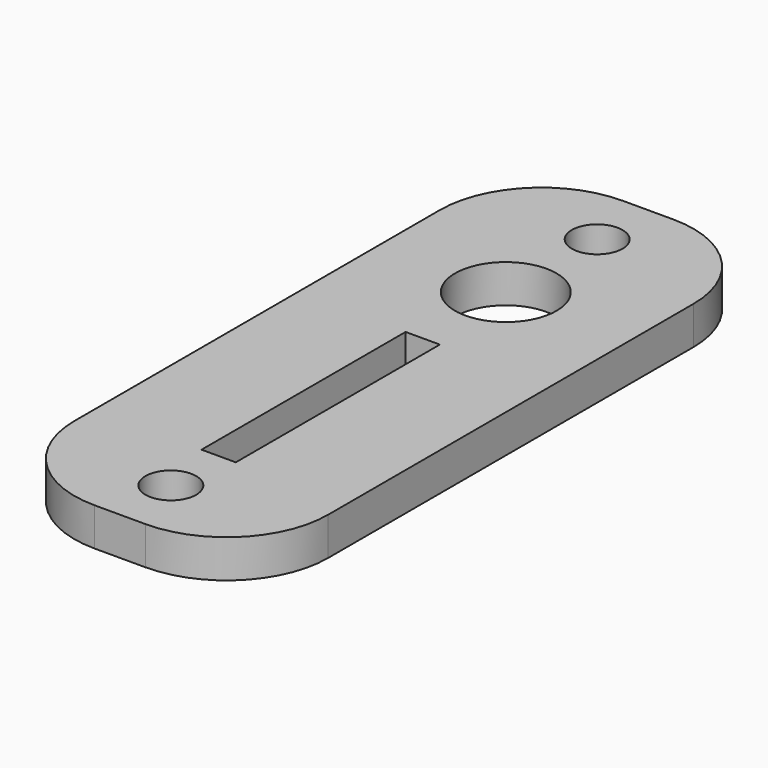
from build123d import *

# Parameters (mm, degrees)
CYLINDER372_R     = 2
CYLINDER372_DEPTH = 70
CYLINDER373_R     = 2
CYLINDER373_DEPTH = 70
CYLINDER369_R     = 4
CYLINDER369_DEPTH = 5
BOX463_W          = 2.7
BOX463_H          = 20.1
BOX463_DEPTH      = 5
BOX459_W          = 20
BOX459_H          = 52
BOX459_DEPTH      = 3
FILLET016_R       = 8


with BuildPart() as cylinder372:
    # Cylinder372 → Cylinder372 (new body)
    with BuildSketch(Plane(origin=(-90, -103, -10), x_dir=(1, 0, 0), z_dir=(0, 0, 1))):
        Circle(CYLINDER372_R)
    extrude(amount=CYLINDER372_DEPTH)


with BuildPart() as fusion369:
    # Cylinder373 → Cylinder373 (new body)
    with BuildSketch(Plane(origin=(-90, -61, -10), x_dir=(1, 0, 0), z_dir=(0, 0, 1))):
        Circle(CYLINDER373_R)
    extrude(amount=CYLINDER373_DEPTH)

    # Fusion369: union Cylinder372
    add(cylinder372.part)


with BuildPart() as fusion369_1:
    # Fusion369 placement: moved
    add(fusion369.part.moved(Location((114, 0, 0))))


with BuildPart() as cylinder369:
    # Cylinder369 → Cylinder369 (new body)
    with BuildSketch(Plane(origin=(24, -70, 39), x_dir=(1, 0, 0), z_dir=(0, 0, 1))):
        Circle(CYLINDER369_R)
    extrude(amount=CYLINDER369_DEPTH)


with BuildPart() as box463:
    # Box463 → Box463 (new body)
    with BuildSketch(Plane(origin=(22.5, -98.1, 39), x_dir=(1, 0, 0), z_dir=(0, 0, 1))):
        with Locations((1.35, 10.05)):
            Rectangle(BOX463_W, BOX463_H)
    extrude(amount=BOX463_DEPTH)


with BuildPart() as cut402:
    # Box459 → Box459 (new body)
    with BuildSketch(Plane(origin=(14, -108, 40.1), x_dir=(1, 0, 0), z_dir=(0, 0, 1))):
        with Locations((10, 26)):
            Rectangle(BOX459_W, BOX459_H)
    extrude(amount=BOX459_DEPTH)

    # Cut397: cut Box463
    add(box463.part, mode=Mode.SUBTRACT)

    # Fillet016
    fillet016_edges = [cut402.edges().sort_by_distance(p)[0] for p in [
        (14, -108, 41.6),
        (14, -56, 41.6),
        (34, -108, 41.6),
        (34, -56, 41.6),
    ]]
    fillet(fillet016_edges, radius=FILLET016_R)

    # Cut400: cut Cylinder369
    add(cylinder369.part, mode=Mode.SUBTRACT)

    # Cut402: cut Fusion369
    add(fusion369_1.part, mode=Mode.SUBTRACT)


solid = cut402.part
